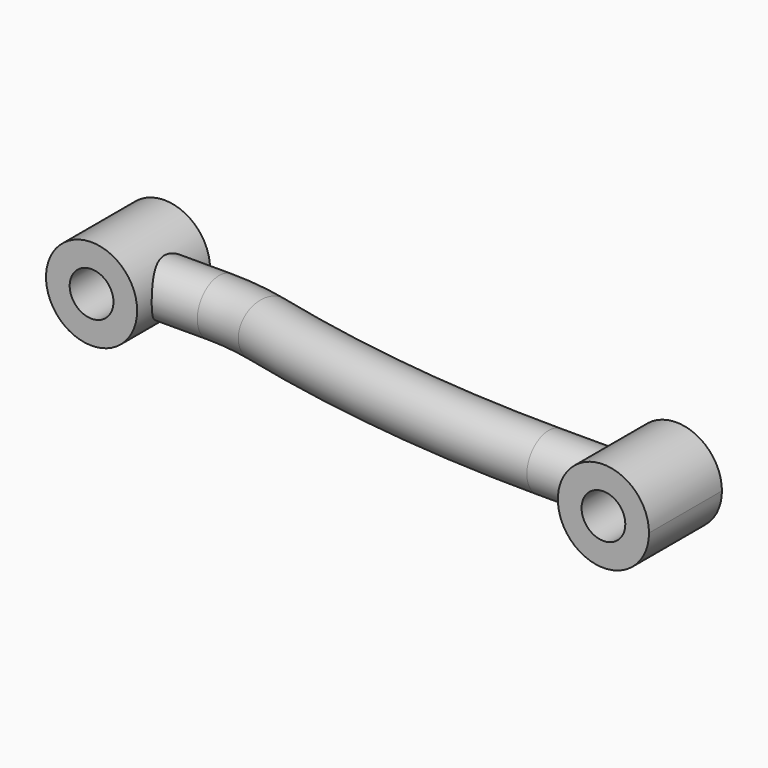
from build123d import *

# Parameters (mm, degrees)
F1_R      = 7.5
F3_R      = 12.5
F4_DEPTH  = 12.5
F5_R      = 6
F6_DEPTH  = 25
F9_DEPTH  = 12.5
F10_R     = 6
F11_DEPTH = 25


with BuildPart() as f2:
    # F2: sweep along a path in F0
    with BuildLine(Plane.XY) as f2_path:
        Line((150, -12), (125, -12))
        ThreePointArc((125, -12), (81.789999989, -9.4166667579), (39.1955835962, -1.7034700315))
        ThreePointArc((39.1955835962, -1.7034700315), (32.1487132371, -0.4273896908), (25, 0))
        Line((25, 0), (0, 0))
    # F1 (on Right) → F2 (sweep)
    with BuildSketch(Plane.YZ):
        Circle(F1_R)
    sweep(path=f2_path.line)

    # F3 (on Front) → F4 (join, symmetric)
    with BuildSketch(Plane.XZ):
        Circle(F3_R)
    extrude(amount=F4_DEPTH, both=True)

    # F5 (on face) → F6 (cut)
    with BuildSketch(Plane.XZ.offset(12.5)):
        Circle(F5_R)
    extrude(amount=-F6_DEPTH, mode=Mode.SUBTRACT)

    # F8 (on offset) → F9 (join, symmetric)
    with BuildSketch(Plane.XZ.offset(12)):
        with BuildLine():
            Line((140, -7.5), (150, -7.5))
            Line((150, -7.5), (150, 7.5))
            Line((150, 7.5), (140, 7.5))
            ThreePointArc((140, 7.5), (137.5, 0), (140, -7.5))
        make_face()
        with BuildLine():
            Line((150, 7.5), (150, -7.5))
            Line((150, -7.5), (140, -7.5))
            ThreePointArc((140, -7.5), (153.9528470752, -11.8585412256), (162.5, 0))
            ThreePointArc((162.5, 0), (153.9528470752, 11.8585412256), (140, 7.5))
            Line((140, 7.5), (150, 7.5))
        make_face()
    extrude(amount=F9_DEPTH, both=True)

    # F10 (on face) → F11 (cut)
    with BuildSketch(Plane.XZ.offset(24.5)):
        with Locations((150, 0)):
            Circle(F10_R)
    extrude(amount=-F11_DEPTH, mode=Mode.SUBTRACT)


solid = f2.part
